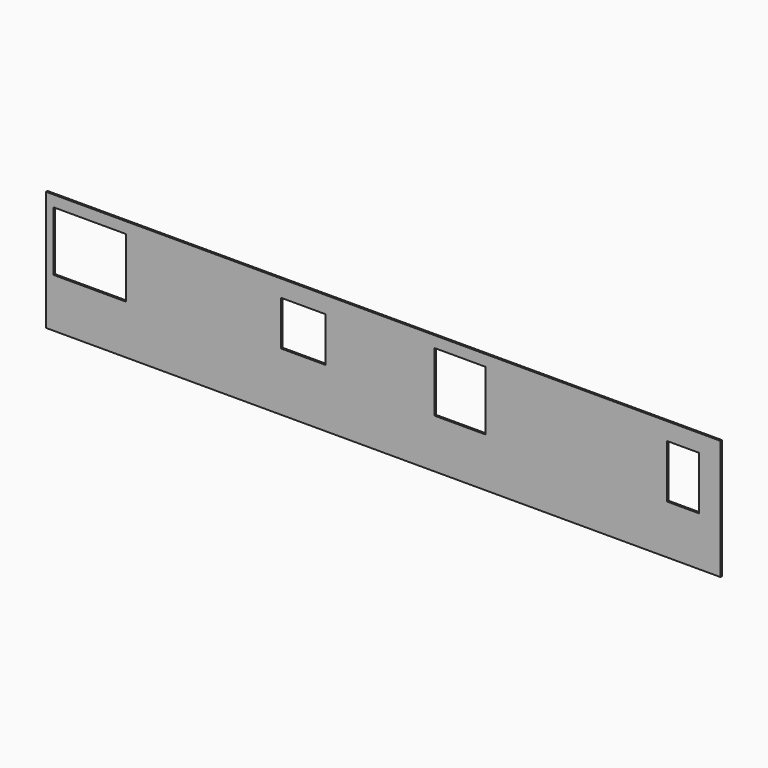
from build123d import *

# Parameters (mm, degrees)
F0_W     = 30
F0_H     = 2088
F0_W_2   = 1300
F0_H_2   = 30
F0_W_3   = 800
F0_W_4   = 915
F0_W_5   = 580
F1_DEPTH = 30
F2_W     = 12081
F2_H     = 2148
F2_W_2   = 1300
F2_H_2   = 1067
F2_W_3   = 800
F2_H_3   = 800
F2_W_4   = 915
F2_W_5   = 580
F2_H_4   = 955
F3_DEPTH = 3


with BuildPart() as f1:
    # F0 (on Front) → F1 (new body)
    with BuildSketch(Plane.XZ):
        Polygon((875.5, 0), (0, 0), (-1016.5, 0), (-1046.5, 0), (-1846.5, 0), (-1876.5, 0), (-4590.5, 0), (-4620.5, 0), (-5920.5, 0), (-5950.5, 0), (-6025.5, 0), (-6025.5, 2088), (-5950.5, 2088), (-5920.5, 2088), (-4620.5, 2088), (-4590.5, 2088), (-3474.5, 2088), (-3474.5, 2118), (-6055.5, 2118), (-6055.5, -30), (6025.5, -30), (6025.5, 0), (5995.5, 0), (5675.5, 0), (5645.5, 0), (5065.5, 0), (5035.5, 0), (1850.5, 0), (1820.5, 0), (905.5, 0), align=None)
        Polygon((-1046.5, 2088), (-1016.5, 2088), (875.5, 2088), (905.5, 2088), (1575.5, 2088), (1575.5, 2118), (-3474.5, 2118), (-3474.5, 2088), (-1876.5, 2088), (-1846.5, 2088), align=None)
        Polygon((1575.5, 2118), (1575.5, 2088), (1820.5, 2088), (1850.5, 2088), (5035.5, 2088), (5065.5, 2088), (5645.5, 2088), (5675.5, 2088), (5995.5, 2088), (6025.5, 2088), (6025.5, 2118), align=None)
        with Locations((6010.5, 1044)):
            Rectangle(F0_W, F0_H)
        with Locations((-5270.5, 1932)):
            Rectangle(F0_W_2, F0_H_2)
        Polygon((-4620.5, 0), (-4590.5, 0), (-4590.5, 2088), (-4620.5, 2088), (-4620.5, 1947), (-4620.5, 1917), (-4620.5, 850), (-4620.5, 820), align=None)
        with Locations((-5270.5, 835)):
            Rectangle(F0_W_2, F0_H_2)
        Polygon((-5950.5, 0), (-5920.5, 0), (-5920.5, 820), (-5920.5, 850), (-5920.5, 1917), (-5920.5, 1947), (-5920.5, 2088), (-5950.5, 2088), align=None)
        Polygon((-1876.5, 0), (-1846.5, 0), (-1846.5, 985), (-1846.5, 1015), (-1846.5, 1815), (-1846.5, 1845), (-1846.5, 2088), (-1876.5, 2088), align=None)
        with Locations((-1446.5, 1830)):
            Rectangle(F0_W_3, F0_H_2)
        with Locations((-1446.5, 1000)):
            Rectangle(F0_W_3, F0_H_2)
        Polygon((-1046.5, 0), (-1016.5, 0), (-1016.5, 2088), (-1046.5, 2088), (-1046.5, 1845), (-1046.5, 1815), (-1046.5, 1015), (-1046.5, 985), align=None)
        Polygon((875.5, 2088), (875.5, 0), (905.5, 0), (905.5, 820), (905.5, 850), (905.5, 1917), (905.5, 1947), (905.5, 2088), align=None)
        with Locations((1363, 1932)):
            Rectangle(F0_W_4, F0_H_2)
        with Locations((1363, 835)):
            Rectangle(F0_W_4, F0_H_2)
        Polygon((1820.5, 820), (1820.5, 0), (1850.5, 0), (1850.5, 2088), (1820.5, 2088), (1820.5, 1947), (1820.5, 1917), (1820.5, 850), align=None)
        Polygon((5035.5, 2088), (5035.5, 0), (5065.5, 0), (5065.5, 820), (5065.5, 850), (5065.5, 1805), (5065.5, 1835), (5065.5, 2088), align=None)
        with Locations((5355.5, 1820)):
            Rectangle(F0_W_5, F0_H_2)
        with Locations((5355.5, 835)):
            Rectangle(F0_W_5, F0_H_2)
        Polygon((5645.5, 820), (5645.5, 0), (5675.5, 0), (5675.5, 2088), (5645.5, 2088), (5645.5, 1835), (5645.5, 1805), (5645.5, 850), align=None)
    extrude(amount=F1_DEPTH)


with BuildPart() as f3:
    # F2 (on face) → F3 (new body)
    with BuildSketch(Plane.XZ.offset(30)):
        with Locations((-15, 1044)):
            Rectangle(F2_W, F2_H)
        with Locations((-5270.5, 1383.5)):
            Rectangle(F2_W_2, F2_H_2, mode=Mode.SUBTRACT)
        with Locations((-1446.5, 1415)):
            Rectangle(F2_W_3, F2_H_3, mode=Mode.SUBTRACT)
        with Locations((1363, 1383.5)):
            Rectangle(F2_W_4, F2_H_2, mode=Mode.SUBTRACT)
        with Locations((5355.5, 1327.5)):
            Rectangle(F2_W_5, F2_H_4, mode=Mode.SUBTRACT)
    extrude(amount=F3_DEPTH)


solid = Compound([f1.part, f3.part])
